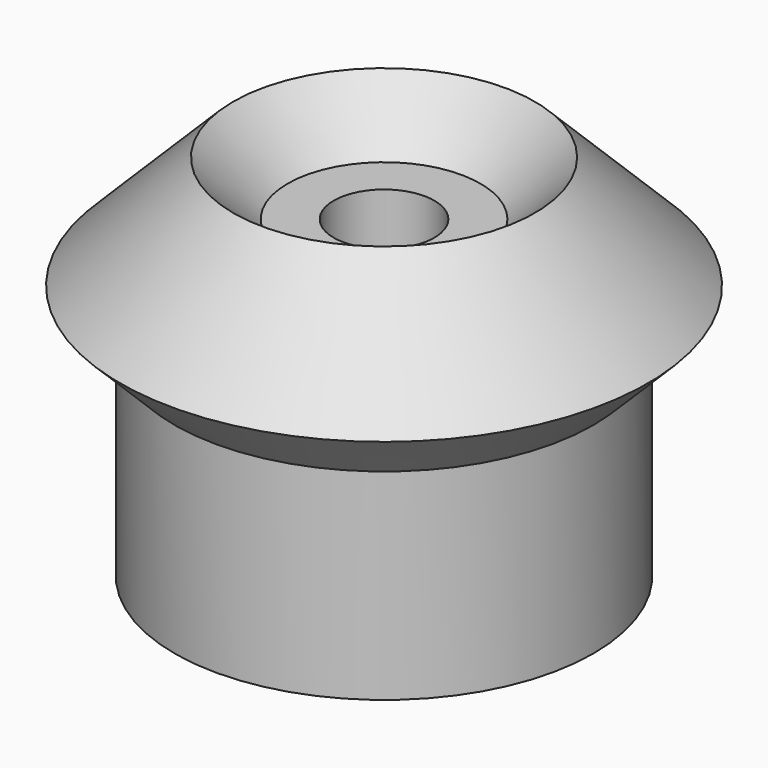
from build123d import *


with BuildPart() as part:
    # Sketch → Revolution (revolve)
    with BuildSketch(Plane.XZ):
        Polygon((-3, 18.75), (-5.75, 18.75), (-9, 22), (-15.75, 15.25), (-12.5, 12), (-12.5, 0), (-3, 0), align=None)
    revolve(axis=Axis((0, 0, 0), (0, 0, 1)))


solid = part.part
